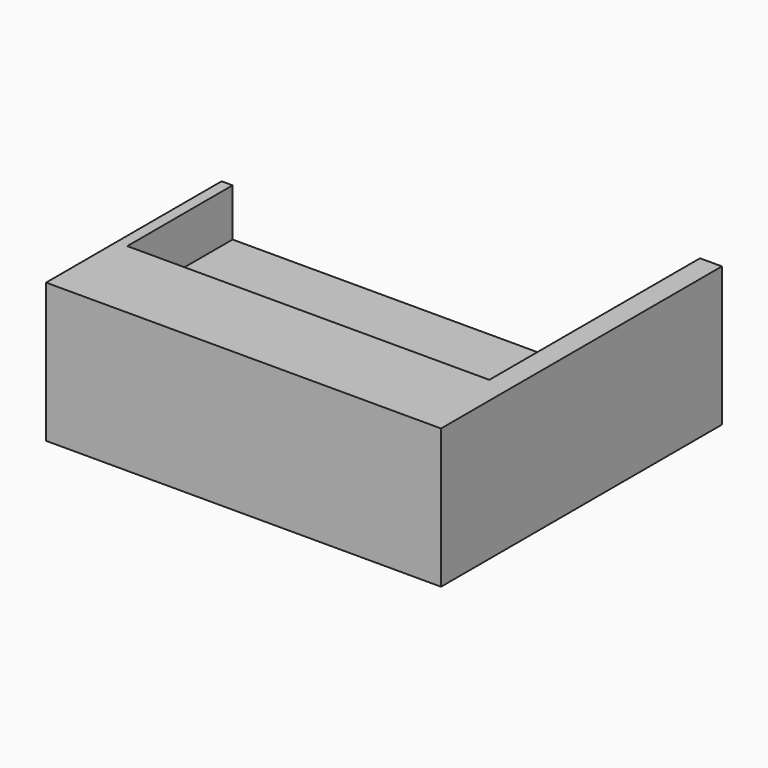
from build123d import *

# Parameters (mm, degrees)
PAD_DEPTH     = 3.175
SKETCH001_W   = 16.5
SKETCH001_H   = 2.94443
SKETCH001_H_2 = 6.219495
POCKET_DEPTH  = 6


with BuildPart() as part:
    # Sketch → Pad (new body, symmetric)
    with BuildSketch(Plane.XY):
        Polygon((0, 0), (0, 10), (17, 10), (17, 16), (18, 16), (18, 0), align=None)
    extrude(amount=PAD_DEPTH, both=True)

    # Sketch001 (on Face2 of Pad) → Pocket (cut)
    with BuildSketch(Plane(origin=(0, 10, 0), x_dir=(-1, 0, 0), z_dir=(0, 1, 0))):
        with Locations((-8.75, 2.472215)):
            Rectangle(SKETCH001_W, SKETCH001_H)
        with Locations((-8.75, -4.109747)):
            Rectangle(SKETCH001_W, SKETCH001_H_2)
    extrude(amount=-POCKET_DEPTH, mode=Mode.SUBTRACT)


solid = part.part
